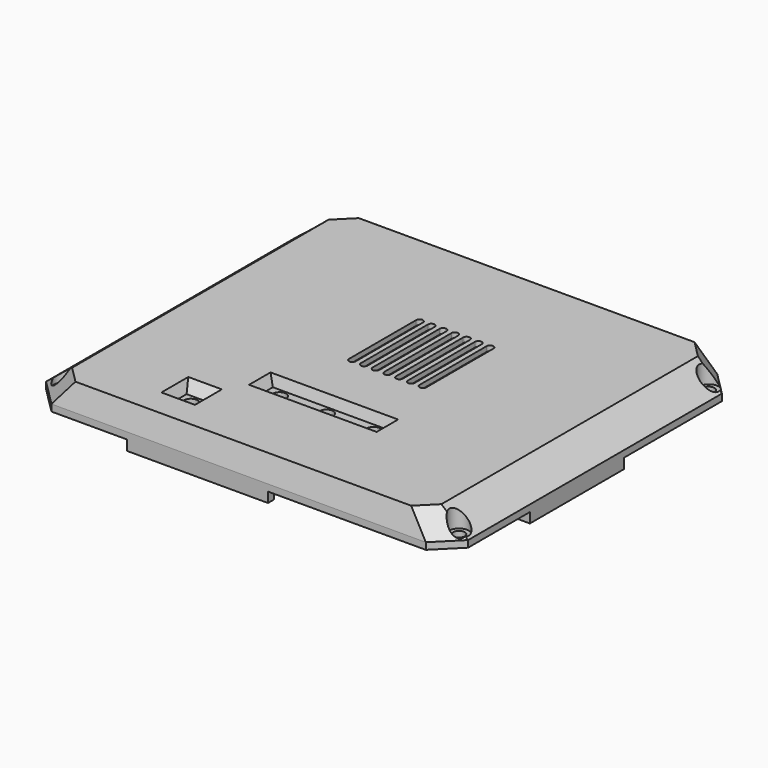
from build123d import *

# Parameters (mm, degrees)
SKETCH112_R      = 2.9
EXTRUDE097_DEPTH = 10
SKETCH111_R      = 1.7
EXTRUDE096_DEPTH = 5
SKETCH113_R      = 2
EXTRUDE098_DEPTH = 10
SKETCH114_W      = 35
SKETCH114_H      = 5
SKETCH115_W      = 38
SKETCH115_H      = 8
SKETCH116_W      = 7
SKETCH116_H      = 5
SKETCH117_W      = 10
SKETCH117_H      = 10
SKETCH110_W      = 104
SKETCH110_H      = 64
SKETCH110_W_2    = 5
SKETCH110_H_2    = 6
SKETCH110_W_3    = 9
SKETCH110_H_3    = 3
EXTRUDE095_DEPTH = 5
SKETCH118_W      = 7.75
SKETCH118_H      = 56
SKETCH118_W_2    = 4
SKETCH118_H_2    = 17
SKETCH118_W_3    = 6.25
SKETCH118_H_3    = 35
SKETCH118_W_4    = 42
SKETCH118_H_4    = 2.25
SKETCH118_W_5    = 2
SKETCH118_H_5    = 7.5
SKETCH118_W_6    = 7.5
SKETCH118_H_6    = 2
SKETCH118_W_7    = 12
SKETCH118_W_8    = 7
EXTRUDE099_DEPTH = 3


with BuildPart() as loft004:
    # Sketch108 → Loft004 section 0
    with BuildSketch(Plane.XY):
        Polygon((47.5, -52.25), (-50.5, -52.25), (-57.5, -45.25), (-57.5, 44.75), (-50.5, 51.75), (47.5, 51.75), (55, 44.25), (55, -44.75), align=None)
    # Sketch109 → Loft004 section 1
    with BuildSketch(Plane.XY.offset(4.5)):
        Polygon((45, -51.75), (-48, -51.75), (-56, -43.75), (-56, 43.75), (-48, 51.75), (45, 51.75), (53, 43.75), (53, -43.75), align=None)
    loft(ruled=True)


with BuildPart() as extrude097:
    # Sketch112 → Extrude097 (new body)
    with BuildSketch(Plane.XY):
        with Locations((-60, 46.5)):
            Circle(SKETCH112_R)
        with Locations((57.75, 46.5)):
            Circle(SKETCH112_R)
        with Locations((-60, -46.5)):
            Circle(SKETCH112_R)
        with Locations((57.75, -46.5)):
            Circle(SKETCH112_R)
    extrude(amount=EXTRUDE097_DEPTH)


with BuildPart() as extrude097_1:
    # Extrude097 placement: moved
    add(extrude097.part.moved(Location((0, 0, 2))))


with BuildPart() as fusion035007:
    # Sketch111 → Extrude096 (new body)
    with BuildSketch(Plane.XY):
        with Locations((-60, 46.5)):
            Circle(SKETCH111_R)
        with Locations((57.75, 46.5)):
            Circle(SKETCH111_R)
        with Locations((-60, -46.5)):
            Circle(SKETCH111_R)
        with Locations((57.75, -46.5)):
            Circle(SKETCH111_R)
    extrude(amount=EXTRUDE096_DEPTH)

    # Fusion035007: union Extrude097
    add(extrude097_1.part)


with BuildPart() as extrude098:
    # Sketch113 → Extrude098 (new body)
    with BuildSketch(Plane.XY):
        with Locations((-13.5, -24.3)):
            Circle(SKETCH113_R)
        with Locations((0.5, -24.3)):
            Circle(SKETCH113_R)
        with Locations((14.5, -24.3)):
            Circle(SKETCH113_R)
        with Locations((-27.55, -39.75)):
            Circle(SKETCH113_R)
        with BuildLine():
            ThreePointArc((-7, 21), (-8, 22), (-9, 21))
            Line((-9, 21), (-9, -4))
            ThreePointArc((-9, -4), (-8, -5), (-7, -4))
            Line((-7, 21), (-7, -4))
        make_face()
        with BuildLine():
            ThreePointArc((-3.5, 21), (-4.5, 22), (-5.5, 21))
            Line((-5.5, 21), (-5.5, -4))
            ThreePointArc((-5.5, -4), (-4.5, -5), (-3.5, -4))
            Line((-3.5, 21), (-3.5, -4))
        make_face()
        with BuildLine():
            ThreePointArc((0, 21), (-1, 22), (-2, 21))
            Line((-2, 21), (-2, -4))
            ThreePointArc((-2, -4), (-1, -5), (0, -4))
            Line((0, 21), (0, -4))
        make_face()
        with BuildLine():
            ThreePointArc((3.5, 21), (2.5, 22), (1.5, 21))
            Line((1.5, 21), (1.5, -4))
            ThreePointArc((1.5, -4), (2.5, -5), (3.5, -4))
            Line((3.5, 21), (3.5, -4))
        make_face()
        with BuildLine():
            ThreePointArc((14, 21), (13, 22), (12, 21))
            Line((12, 21), (12, -4))
            ThreePointArc((12, -4), (13, -5), (14, -4))
            Line((14, 21), (14, -4))
        make_face()
        with BuildLine():
            ThreePointArc((7, 21), (6, 22), (5, 21))
            Line((5, 21), (5, -4))
            ThreePointArc((5, -4), (6, -5), (7, -4))
            Line((7, 21), (7, -4))
        make_face()
        with BuildLine():
            ThreePointArc((10.5, 21), (9.5, 22), (8.5, 21))
            Line((8.5, 21), (8.5, -4))
            ThreePointArc((8.5, -4), (9.5, -5), (10.5, -4))
            Line((10.5, 21), (10.5, -4))
        make_face()
    extrude(amount=EXTRUDE098_DEPTH)


with BuildPart() as loft005:
    # Sketch114 → Loft005 section 0
    with BuildSketch(Plane.XY):
        Rectangle(SKETCH114_W, SKETCH114_H)
    # Sketch115 → Loft005 section 1
    with BuildSketch(Plane.XY.offset(3)):
        with Locations((0, -0.5)):
            Rectangle(SKETCH115_W, SKETCH115_H)
    loft(ruled=True)


with BuildPart() as loft005_1:
    # Loft005 placement: moved
    add(loft005.part.moved(Location((0, -24.25, 6))))


with BuildPart() as loft006:
    # Sketch116 → Loft006 section 0
    with BuildSketch(Plane.XY):
        Rectangle(SKETCH116_W, SKETCH116_H)
    # Sketch117 → Loft006 section 1
    with BuildSketch(Plane.XY.offset(3)):
        Rectangle(SKETCH117_W, SKETCH117_H)
    loft(ruled=True)


with BuildPart() as loft006_1:
    # Loft006 placement: moved
    add(loft006.part.moved(Location((-27.5, -39.5, 6))))


with BuildPart() as fusion035006:
    # Sketch110 → Extrude095 (new body)
    with BuildSketch(Plane.XY):
        with Locations((0, 11)):
            Rectangle(SKETCH110_W, SKETCH110_H)
        with Locations((21, -36)):
            Rectangle(SKETCH110_W_2, SKETCH110_H_2)
        with Locations((9.5, -47.5)):
            Rectangle(SKETCH110_W_3, SKETCH110_H_3)
    extrude(amount=EXTRUDE095_DEPTH)


with BuildPart() as fusion035006_1:
    # Extrude095 placement: moved
    add(fusion035006.part.moved(Location((0, 0, 2.5))))

    # Fusion035006: union Loft004, Fusion035007, Extrude098, Loft005, Loft006
    add(loft004.part)
    add(fusion035007.part)
    add(extrude098.part)
    add(loft005_1.part)
    add(loft006_1.part)


with BuildPart() as cut010:
    # Sketch106 → Loft007 section 0
    with BuildSketch(Plane.XY):
        Polygon((54.25, -54.5), (-57.25, -54.5), (-65.25, -46.5), (-65.25, 46), (-57.25, 54), (54.25, 54), (61.25, 47), (61.25, -47.5), align=None)
    # Sketch119 → Loft007 section 1
    with BuildSketch(Plane.XY.offset(2)):
        Polygon((54.25, -54.5), (-57.25, -54.5), (-65.25, -46.5), (-65.25, 46), (-57.25, 54), (54.25, 54), (61.25, 47), (61.25, -47.5), align=None)
    # Sketch107 → Loft007 section 2
    with BuildSketch(Plane.XY.offset(9)):
        Polygon((48.5, -52.75), (-51.5, -52.75), (-56.5, -47.75), (-56.5, 47.75), (-51.5, 52.75), (48.5, 52.75), (53.5, 47.75), (53.5, -47.75), align=None)
    loft(ruled=True)

    # Cut010: cut Fusion035006
    add(fusion035006_1.part, mode=Mode.SUBTRACT)


with BuildPart() as obj1:
    # Sketch118 → Extrude099 (new body)
    with BuildSketch(Plane.XY):
        with Locations((-61.375, -15.5)):
            Rectangle(SKETCH118_W, SKETCH118_H)
        with Locations((-59.5, 24.5)):
            Rectangle(SKETCH118_W_2, SKETCH118_H_2)
        with Locations((58.125, -7)):
            Rectangle(SKETCH118_W_3, SKETCH118_H_3)
        with Locations((-13.75, -53.375)):
            Rectangle(SKETCH118_W_4, SKETCH118_H_4)
        with Locations((56, 30.75)):
            Rectangle(SKETCH118_W_5, SKETCH118_H_5)
        with Locations((37, 53)):
            Rectangle(SKETCH118_W_6, SKETCH118_H_6)
        with Locations((-41.75, 53)):
            Rectangle(SKETCH118_W_6, SKETCH118_H_6)
        with Locations((7.25, 53)):
            Rectangle(SKETCH118_W_7, SKETCH118_H_6)
        with Locations((23.25, 53)):
            Rectangle(SKETCH118_W_8, SKETCH118_H_6)
    extrude(amount=-EXTRUDE099_DEPTH)

    # Fusion035008: union Cut010
    add(cut010.part)


with BuildPart() as obj1_1:
    # Fusion035008 placement: moved
    add(obj1.part.moved(Location((0, 0, 32))))


solid = obj1_1.part
